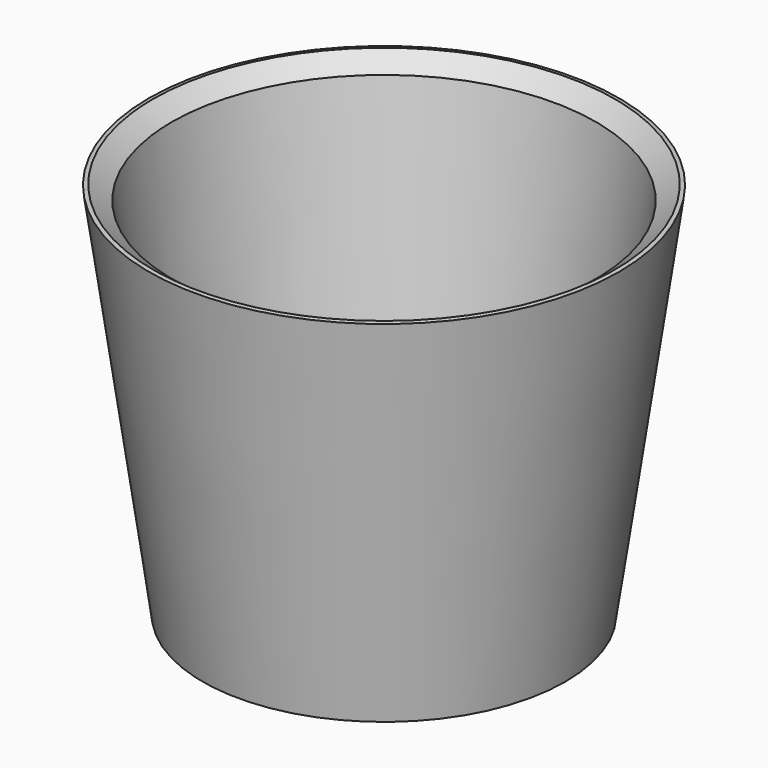
from build123d import *

# Parameters (mm, degrees)
F2_R     = 5.08
F3_SIZE  = 5.08
F4_R     = 5.881856
F5_DEPTH = 6.351


with BuildPart() as f1:
    # F0 (on Front) → F1 (revolve)
    with BuildSketch(Plane.XZ):
        Polygon((-55.446185, 0), (0, 0), (0, 6.35), (-49.934152, 6.35), (-65.576335, 116.510788), (-71.863271, 115.61808), align=None)
    revolve(axis=Axis((0, 0, 3.175), (0, 0, -1)))

    # F2
    f2_edges = [f1.edges().sort_by_distance(p)[0] for p in [
        (49.934152, 0, 6.35),
    ]]
    fillet(f2_edges, radius=F2_R)

    # F3
    f3_edges = [f1.edges().sort_by_distance(p)[0] for p in [
        (65.576335, 0, 116.510788),
    ]]
    chamfer(f3_edges, length=F3_SIZE)

    # F4 (on face) → F5 (cut, through all)
    with BuildSketch(Plane.XY.offset(6.35)):
        with Locations((-17.260052, 19.45248)):
            Circle(F4_R)
        with Locations((-25.476368, -5.221403)):
            Circle(F4_R)
        with Locations((-8.216316, -24.673883)):
            Circle(F4_R)
        with Locations((17.260052, -19.45248)):
            Circle(F4_R)
        with Locations((25.476368, 5.221403)):
            Circle(F4_R)
        with Locations((8.216316, 24.673883)):
            Circle(F4_R)
    extrude(amount=-F5_DEPTH, mode=Mode.SUBTRACT)


solid = f1.part
